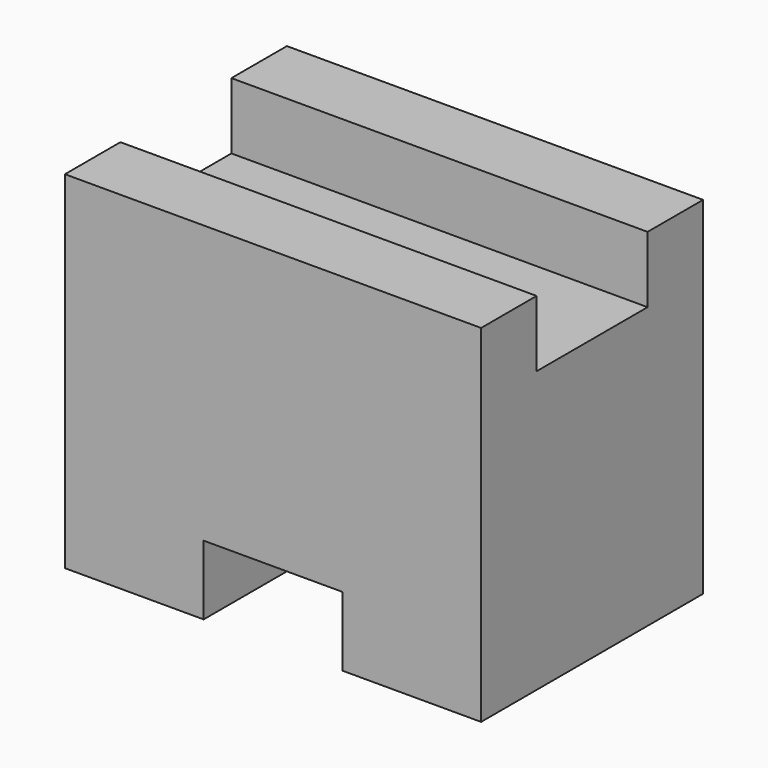
from build123d import *

# Parameters (mm, degrees)
F0_W     = 38.1
F0_H     = 31.75
F1_DEPTH = 25.4
F3_DEPTH = 38.1
F4_W     = 12.7
F4_H     = 6.35
F5_DEPTH = 25.4


with BuildPart() as f1:
    # F0 (on Front) → F1 (new body)
    with BuildSketch(Plane.XZ):
        with Locations((19.05, 15.875)):
            Rectangle(F0_W, F0_H)
    extrude(amount=F1_DEPTH)

    # F2 (on Right) → F3 (cut)
    with BuildSketch(Plane.YZ):
        Polygon((-6.35, 32.030147), (-19.05, 32.030147), (-19.05, 28.8925), (-19.05, 25.680147), (-6.35, 25.680147), align=None)
    extrude(amount=F3_DEPTH, mode=Mode.SUBTRACT)

    # F4 (on Front) → F5 (cut)
    with BuildSketch(Plane.XZ):
        with Locations((19.05, 3.175)):
            Rectangle(F4_W, F4_H)
    extrude(amount=F5_DEPTH, mode=Mode.SUBTRACT)


solid = f1.part
